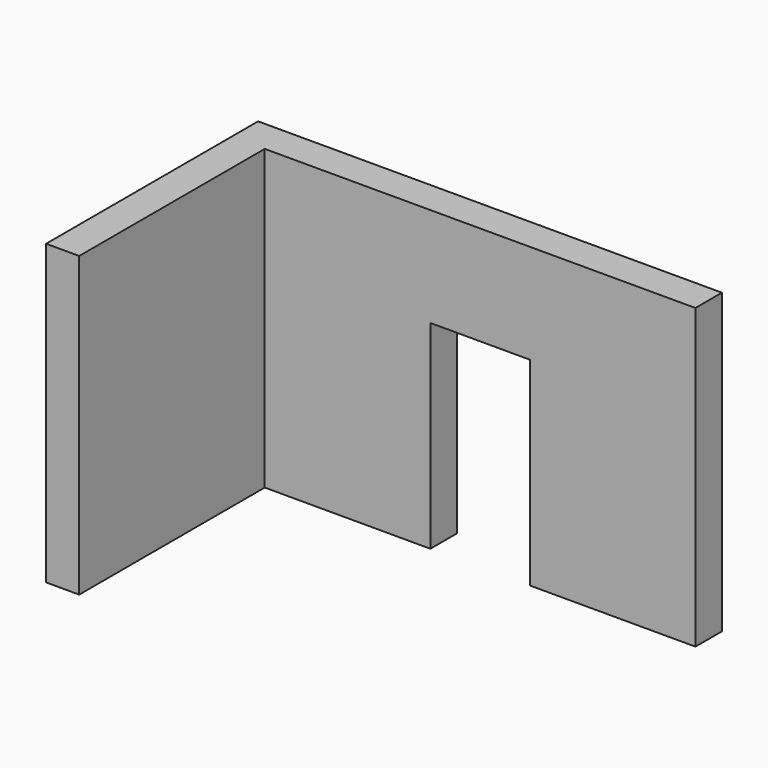
from build123d import *

# Parameters (mm, degrees)
BOX018_W     = 5
BOX018_H     = 1
BOX018_DEPTH = 9
BOX017_W     = 5
BOX017_H     = 1
BOX017_DEPTH = 9
BOX019_W     = 3
BOX019_H     = 1
BOX019_DEPTH = 3
BOX007_W     = 1
BOX007_H     = 8
BOX007_DEPTH = 9


with BuildPart() as box018:
    # Box018 → Box018 (new body)
    with BuildSketch(Plane(origin=(19, 8, 1), x_dir=(1, 0, 0), z_dir=(0, 0, 1))):
        with Locations((2.5, 0.5)):
            Rectangle(BOX018_W, BOX018_H)
    extrude(amount=BOX018_DEPTH)


with BuildPart() as box017:
    # Box017 → Box017 (new body)
    with BuildSketch(Plane(origin=(11, 8, 1), x_dir=(1, 0, 0), z_dir=(0, 0, 1))):
        with Locations((2.5, 0.5)):
            Rectangle(BOX017_W, BOX017_H)
    extrude(amount=BOX017_DEPTH)


with BuildPart() as fusion007:
    # Box019 → Box019 (new body)
    with BuildSketch(Plane(origin=(16, 8, 7), x_dir=(1, 0, 0), z_dir=(0, 0, 1))):
        with Locations((1.5, 0.5)):
            Rectangle(BOX019_W, BOX019_H)
    extrude(amount=BOX019_DEPTH)

    # Fusion007: union Box018, Box017
    add(box018.part)
    add(box017.part)


with BuildPart() as fusion040:
    # Box007 → Box007 (new body)
    with BuildSketch(Plane(origin=(10, 1, 1), x_dir=(1, 0, 0), z_dir=(0, 0, 1))):
        with Locations((0.5, 4)):
            Rectangle(BOX007_W, BOX007_H)
    extrude(amount=BOX007_DEPTH)

    # Fusion040: union Fusion007
    add(fusion007.part)


solid = fusion040.part
